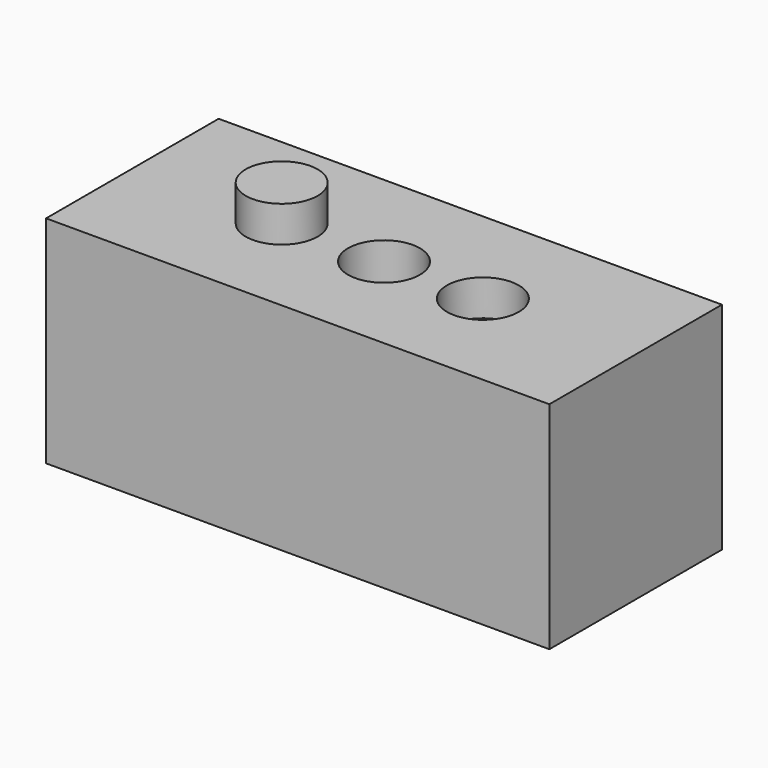
from build123d import *

# Parameters (mm, degrees)
F0_W     = 140
F0_H     = 60
F1_DEPTH = 60
F3_R     = 10
F6_DEPTH = 10
F4_R     = 10
F7_DEPTH = 10
F5_R     = 10
F8_DEPTH = 72.9


with BuildPart() as f1:
    # F0 (on Top) → F1 (new body)
    with BuildSketch(Plane.XY):
        Rectangle(F0_W, F0_H)
    extrude(amount=F1_DEPTH)

    # F3 (on face) → F6 (join)
    with BuildSketch(Plane.XY.offset(60)):
        with Locations((-28.553736, 0.112936)):
            Circle(F3_R)
    extrude(amount=F6_DEPTH)

    # F4 (on face) → F7 (cut)
    with BuildSketch(Plane.XY.offset(60)):
        with Locations((27.685507, -0.221579)):
            Circle(F4_R)
    extrude(amount=-F7_DEPTH, mode=Mode.SUBTRACT)

    # F5 (on face) → F8 (cut)
    with BuildSketch(Plane.XY.offset(60)):
        Circle(F5_R)
    extrude(amount=-F8_DEPTH, mode=Mode.SUBTRACT)


solid = f1.part
